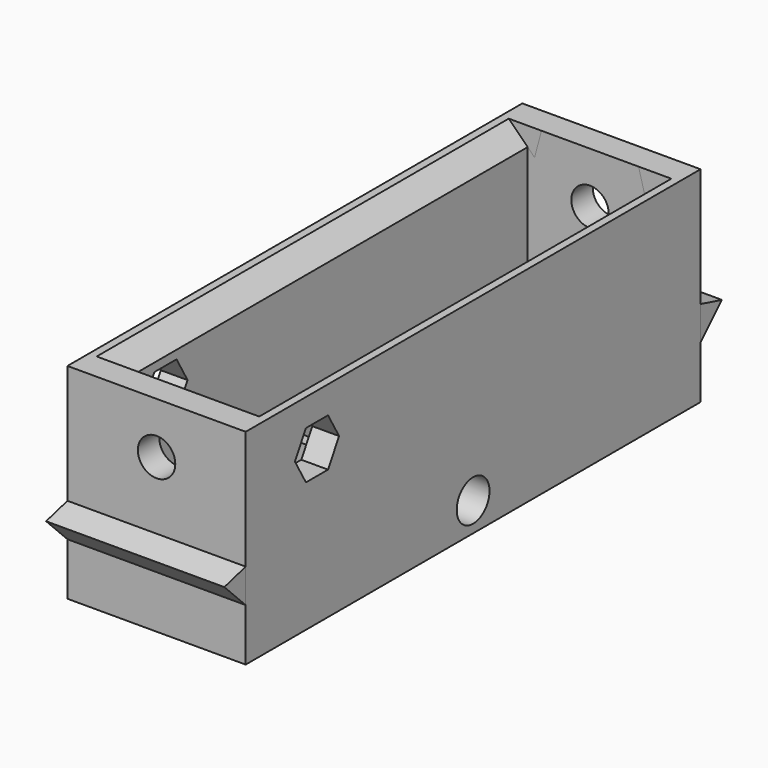
from build123d import *

# Parameters (mm, degrees)
CUBE013_W                = 3.2
CUBE013_H                = 7.4
CUBE013_DEPTH            = 6
CUBE014_W                = 3.52
CUBE014_H                = 7.4
CUBE014_DEPTH            = 6
CYLINDER009_R            = 2.3
CYLINDER009_DEPTH        = 71
CUBE012_W                = 14
CUBE012_H                = 10
CUBE012_DEPTH            = 6
CYLINDER007_R            = 2.3
CYLINDER007_DEPTH        = 71
CYLINDER008_R            = 2.1
CYLINDER008_DEPTH        = 71
PRISM006_DEPTH           = 57.8
PRISM006_ROLL_ANGLE      = 90
PRISM006_PITCH_ANGLE     = -14.999996
PRISM007_DEPTH           = 57.8
PRISM007_ROLL_ANGLE      = -90
PRISM007_PITCH_ANGLE     = -14.999996
PRISM007_PLACEMENT_ANGLE = -180
PRISM008_DEPTH           = 21
CUBE011_W                = 14
CUBE011_H                = 57.8
CUBE011_DEPTH            = 23
PRISM004_DEPTH           = 20
PRISM004_ROLL_ANGLE      = 90
PRISM004_PITCH_ANGLE     = -14.999988
PRISM004_PLACEMENT_ANGLE = 90
PRISM005_DEPTH           = 20
PRISM005_ROLL_ANGLE      = -90
PRISM005_PITCH_ANGLE     = -14.999988
PRISM005_PLACEMENT_ANGLE = -90
CUBE010_W                = 20
CUBE010_H                = 63.8
CUBE010_DEPTH            = 23


with BuildPart() as cube013:
    # cube013 → cube013 (new body)
    with BuildSketch(Plane(origin=(-7, -3.7, 8.5), x_dir=(1, 0, 0), z_dir=(0, 0, 1))):
        with Locations((1.6, 3.7)):
            Rectangle(CUBE013_W, CUBE013_H)
    extrude(amount=CUBE013_DEPTH)


with BuildPart() as cube014:
    # cube014 → cube014 (new body)
    with BuildSketch(Plane(origin=(2.85194, -3.7, 8.5), x_dir=(1, 0, 0), z_dir=(0, 0, 1))):
        with Locations((1.76, 3.7)):
            Rectangle(CUBE014_W, CUBE014_H)
    extrude(amount=CUBE014_DEPTH)


with BuildPart() as group005:
    # cylinder009 → cylinder009 (new body)
    with BuildSketch(Plane(origin=(-35.5, 0, 11.75), x_dir=(0, 1, 0), z_dir=(1, 0, 0))):
        Circle(CYLINDER009_R)
    extrude(amount=CYLINDER009_DEPTH)

    # Group005: union cube013, cube014
    add(cube013.part)
    add(cube014.part)


with BuildPart() as body003:
    # cube012 → cube012 (new body)
    with BuildSketch(Plane(origin=(-7, -5, 8.5), x_dir=(1, 0, 0), z_dir=(0, 0, 1))):
        with Locations((7, 5)):
            Rectangle(CUBE012_W, CUBE012_H)
    extrude(amount=CUBE012_DEPTH)

    # difference003: cut Group005
    add(group005.part, mode=Mode.SUBTRACT)


with BuildPart() as cylinder007:
    # cylinder007 → cylinder007 (new body)
    with BuildSketch(Plane(origin=(-35.5, 0, 11.75), x_dir=(0, 1, 0), z_dir=(1, 0, 0))):
        Circle(CYLINDER007_R)
    extrude(amount=CYLINDER007_DEPTH)


with BuildPart() as cylinder008:
    # cylinder008 → cylinder008 (new body)
    with BuildSketch(Plane(origin=(0, 35.5, 25.75), x_dir=(1, 0, 0), z_dir=(0, -1, 0))):
        Circle(CYLINDER008_R)
    extrude(amount=CYLINDER008_DEPTH)


with BuildPart() as prism006:
    # prism006 → prism006 (new body)
    with BuildSketch(Plane.XY):
        Polygon((3, 0), (-1.5, 2.598076), (-1.5, -2.598076), align=None)
    extrude(amount=PRISM006_DEPTH)


with BuildPart() as prism006_1:
    # prism006 roll: moved
    add(prism006.part.rotate(Axis((0, 0, 0), (1, 0, 0)), PRISM006_ROLL_ANGLE))


with BuildPart() as prism006_2:
    # prism006 pitch: moved
    add(prism006_1.part.rotate(Axis((0, 0, 0), (0, 1, 0)), PRISM006_PITCH_ANGLE))


with BuildPart() as prism006_3:
    # prism006 placement: moved
    add(prism006_2.part.moved(Location((7, 28.900002, 31.5))))


with BuildPart() as prism007:
    # prism007 → prism007 (new body)
    with BuildSketch(Plane.XY):
        Polygon((3, 0), (-1.5, 2.598076), (-1.5, -2.598076), align=None)
    extrude(amount=PRISM007_DEPTH)


with BuildPart() as prism007_1:
    # prism007 roll: moved
    add(prism007.part.rotate(Axis((0, 0, 0), (1, 0, 0)), PRISM007_ROLL_ANGLE))


with BuildPart() as prism007_2:
    # prism007 pitch: moved
    add(prism007_1.part.rotate(Axis((0, 0, 0), (0, 1, 0)), PRISM007_PITCH_ANGLE))


with BuildPart() as prism007_3:
    # prism007 placement: moved
    add(prism007_2.part.moved(Location((-7, 28.900002, 31.5))).rotate(Axis((-7, 28.900002, 31.5), (0, 0, 1)), PRISM007_PLACEMENT_ANGLE))


with BuildPart() as prism008:
    # prism008 → prism008 (new body)
    with BuildSketch(Plane(origin=(-10.5, -21.9, 25.75), x_dir=(0, 1, 0), z_dir=(1, 0, 0))):
        Polygon((3.1, 0), (1.55, 2.684679), (-1.55, 2.684679), (-3.1, 0), (-1.55, -2.684679), (1.55, -2.684679), align=None)
    extrude(amount=PRISM008_DEPTH)


with BuildPart() as group004:
    # cube011 → cube011 (new body)
    with BuildSketch(Plane(origin=(-7, -28.9, 8.5), x_dir=(1, 0, 0), z_dir=(0, 0, 1))):
        with Locations((7, 28.9)):
            Rectangle(CUBE011_W, CUBE011_H)
    extrude(amount=CUBE011_DEPTH)

    # Group004: union cylinder007, cylinder008, prism006, prism007, prism008
    add(cylinder007.part)
    add(cylinder008.part)
    add(prism006_3.part)
    add(prism007_3.part)
    add(prism008.part)


with BuildPart() as prism004:
    # prism004 → prism004 (new body)
    with BuildSketch(Plane.XY):
        Polygon((3, 0), (-1.5, 2.598076), (-1.5, -2.598076), align=None)
    extrude(amount=PRISM004_DEPTH)


with BuildPart() as prism004_1:
    # prism004 roll: moved
    add(prism004.part.rotate(Axis((0, 0, 0), (1, 0, 0)), PRISM004_ROLL_ANGLE))


with BuildPart() as prism004_2:
    # prism004 pitch: moved
    add(prism004_1.part.rotate(Axis((0, 0, 0), (0, 1, 0)), PRISM004_PITCH_ANGLE))


with BuildPart() as prism004_3:
    # prism004 placement: moved
    add(prism004_2.part.moved(Location((-10.000001, 32, 16.6))).rotate(Axis((-10.000001, 32, 16.6), (0, 0, 1)), PRISM004_PLACEMENT_ANGLE))


with BuildPart() as prism005:
    # prism005 → prism005 (new body)
    with BuildSketch(Plane.XY):
        Polygon((3, 0), (-1.5, 2.598076), (-1.5, -2.598076), align=None)
    extrude(amount=PRISM005_DEPTH)


with BuildPart() as prism005_1:
    # prism005 roll: moved
    add(prism005.part.rotate(Axis((0, 0, 0), (1, 0, 0)), PRISM005_ROLL_ANGLE))


with BuildPart() as prism005_2:
    # prism005 pitch: moved
    add(prism005_1.part.rotate(Axis((0, 0, 0), (0, 1, 0)), PRISM005_PITCH_ANGLE))


with BuildPart() as prism005_3:
    # prism005 placement: moved
    add(prism005_2.part.moved(Location((-10.000001, -32, 16.6))).rotate(Axis((-10.000001, -32, 16.6), (0, 0, 1)), PRISM005_PLACEMENT_ANGLE))


with BuildPart() as bottom_slider:
    # cube010 → cube010 (new body)
    with BuildSketch(Plane(origin=(-10, -31.9, 8.5), x_dir=(1, 0, 0), z_dir=(0, 0, 1))):
        with Locations((10, 31.9)):
            Rectangle(CUBE010_W, CUBE010_H)
    extrude(amount=CUBE010_DEPTH)

    # Group003: union prism004, prism005
    add(prism004_3.part)
    add(prism005_3.part)

    # difference002: cut Group004
    add(group004.part, mode=Mode.SUBTRACT)

    # Fusion: union Body003
    add(body003.part)


solid = bottom_slider.part
